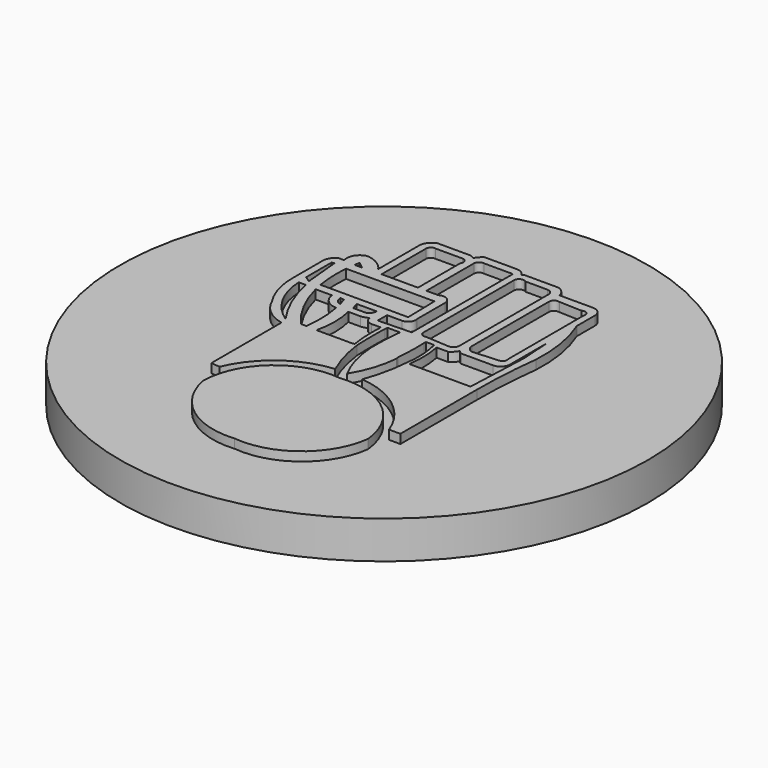
from build123d import *

# Parameters (mm, degrees)
F0_R     = 44.45
F1_DEPTH = 6.35
F3_DEPTH = 1.524


with BuildPart() as f1:
    # F0 (on Top) → F1 (new body)
    with BuildSketch(Plane.XY):
        Circle(F0_R)
    extrude(amount=F1_DEPTH)

    # F2 (on face) → F3 (join)
    with BuildSketch(Plane.XY.offset(6.35)):
        with BuildLine():
            Line((14.266744, -16.789505), (16.174421, -16.789505))
            Line((16.174421, -16.789505), (16.174421, -0.649076))
            ThreePointArc((16.174421, -0.649076), (16.35259, 5.129878), (16.886422, 10.886881))
            ThreePointArc((16.886422, 10.886881), (16.6022, 16.380735), (15.112001, 21.676255))
            Line((15.112001, 21.676255), (15.112001, 25.471544))
            ThreePointArc((15.112001, 25.471544), (14.701466, 26.54223), (13.680344, 27.063973))
            Line((13.680344, 27.063973), (7.902582, 27.063973))
            ThreePointArc((7.902582, 27.063973), (7.372902, 28.085604), (6.401274, 28.702233))
            Line((6.401274, 28.702233), (0.548699, 28.702233))
            Line((0.548699, 28.702233), (0.339415, 28.519413))
            ThreePointArc((0.339415, 28.519413), (-0.259658, 29.132217), (-1.078063, 29.386446))
            Line((-1.078063, 29.386446), (-6.596595, 29.386446))
            ThreePointArc((-6.596595, 29.386446), (-7.170552, 28.886002), (-7.601215, 28.257988))
            Line((-7.601215, 28.257988), (-8.275549, 28.62956))
            Line((-8.275549, 28.62956), (-13.902084, 28.62956))
            ThreePointArc((-13.902084, 28.62956), (-14.910327, 27.935183), (-15.399278, 26.812846))
            Line((-15.399278, 26.812846), (-15.399278, 18.007891))
            ThreePointArc((-15.399278, 18.007891), (-16.882262, 19.40477), (-18.825499, 20.016601))
            ThreePointArc((-18.825499, 20.016601), (-20.28896, 18.979166), (-20.476256, 17.195094))
            Line((-20.476256, 17.195094), (-21.57406, 17.195094))
            ThreePointArc((-21.57406, 17.195094), (-22.216836, 16.525485), (-22.592902, 15.67689))
            Line((-22.592902, 15.67689), (-22.592902, 8.915599))
            ThreePointArc((-22.592902, 8.915599), (-22.077656, 5.371643), (-20.574579, 2.121125))
            ThreePointArc((-20.574579, 2.121125), (-18.672328, -0.436179), (-15.81502, -1.848322))
            Line((-15.81502, -1.848322), (-15.81502, -16.607206))
            Line((-15.81502, -16.607206), (-14.312524, -16.722865))
            ThreePointArc((-14.312524, -16.722865), (-9.429926, -10.516693), (-2.041151, -7.730593))
            ThreePointArc((-2.041151, -7.730593), (-3.303385, -4.257154), (-4.034998, -0.63462))
            ThreePointArc((-4.034998, -0.63462), (-4.108309, 2.309206), (-4.067672, 5.253665))
            ThreePointArc((-4.067672, 5.253665), (-4.039435, 5.491092), (-4.00891, 5.728235))
            Line((-4.00891, 5.728235), (-1.892883, 5.728235))
            ThreePointArc((-1.892883, 5.728235), (-1.915238, 5.538951), (-1.936669, 5.349559))
            Line((-1.936669, 5.349559), (-1.127844, 5.349559))
            ThreePointArc((-1.127844, 5.349559), (-0.511039, 5.48037), (0, 5.849692))
            ThreePointArc((0, 5.849692), (0.356952, 5.483866), (0.85011, 5.349559))
            Line((0.85011, 5.349559), (2.461509, 5.349559))
            ThreePointArc((2.461509, 5.349559), (2.454231, 5.538914), (2.446139, 5.728235))
            Line((2.446139, 5.728235), (3.878172, 5.728235))
            ThreePointArc((3.878172, 5.728235), (3.906404, 5.552369), (3.933455, 5.376317))
            ThreePointArc((3.933455, 5.376317), (4.333716, 2.429223), (4.154318, -0.539512))
            ThreePointArc((4.154318, -0.539512), (3.615042, -4.235039), (2.56225, -7.818245))
            ThreePointArc((2.56225, -7.818245), (9.713316, -10.60935), (14.266744, -16.789505))
        make_face()
        with BuildLine():
            ThreePointArc((-16.038967, -0.69142), (-19.731668, 3.310632), (-21.20959, 8.551642))
            Line((-21.20959, 8.551642), (-20.019889, 8.551642))
            ThreePointArc((-20.019889, 8.551642), (-18.514927, 3.72101), (-16.038967, -0.69142))
        make_face(mode=Mode.SUBTRACT)
        with BuildLine():
            ThreePointArc((-13.586476, -0.54807), (-16.445581, 3.641916), (-18.237266, 8.387475))
            Line((-18.237266, 8.387475), (-15.499548, 8.387475))
            ThreePointArc((-15.499548, 8.387475), (-14.625554, 6.672839), (-12.842737, 5.947989))
            ThreePointArc((-12.842737, 5.947989), (-12.476999, 2.708513), (-12.627485, -0.54807))
            Line((-12.627485, -0.54807), (-13.586476, -0.54807))
        make_face(mode=Mode.SUBTRACT)
        with BuildLine():
            ThreePointArc((-13.11236, 7.145025), (-13.879679, 7.621043), (-14.111049, 8.493876))
            Line((-14.111049, 8.493876), (-13.473416, 8.387475))
            ThreePointArc((-13.473416, 8.387475), (-13.28312, 7.769089), (-13.11236, 7.145025))
        make_face(mode=Mode.SUBTRACT)
        with BuildLine():
            Line((-6.300529, 5.253665), (-4.758801, 5.253665))
            ThreePointArc((-4.758801, 5.253665), (-4.784728, 2.340306), (-4.501882, -0.559405))
            Line((-4.501882, -0.559405), (-4.961259, -0.63462))
            Line((-4.961259, -0.63462), (-10.877538, -0.63462))
            ThreePointArc((-10.877538, -0.63462), (-10.479745, 2.714587), (-10.877538, 6.063794))
            Line((-10.877538, 6.063794), (-8.80478, 6.063794))
            ThreePointArc((-8.80478, 6.063794), (-8.172808, 6.188255), (-7.577869, 6.435088))
            ThreePointArc((-7.577869, 6.435088), (-7.170494, 5.594303), (-6.300529, 5.253665))
        make_face(mode=Mode.SUBTRACT)
        with BuildLine():
            Line((-8.775949, 7.28746), (-11.041455, 7.287834))
            Line((-11.041455, 7.287834), (-11.40706, 8.493429))
            Line((-11.40706, 8.493429), (-8.008795, 8.493429))
            ThreePointArc((-8.008795, 8.493429), (-8.24989, 7.799807), (-8.775949, 7.28746))
        make_face(mode=Mode.SUBTRACT)
        Polygon((-21.360978, 10.283518), (-21.360978, 15.592238), (-20.94692, 15.797144), (-20.353174, 9.610877), align=None, mode=Mode.SUBTRACT)
        with BuildLine():
            ThreePointArc((-18.532675, 9.78182), (-18.842122, 12.618034), (-18.771222, 15.470199))
            Line((-18.771222, 15.470199), (-3.892624, 15.470199))
            Line((-3.892624, 15.470199), (-3.767836, 9.78182))
            Line((-3.767836, 9.78182), (-18.532675, 9.78182))
        make_face(mode=Mode.SUBTRACT)
        with BuildLine():
            ThreePointArc((-18.573843, 17.005851), (-18.496659, 17.443817), (-18.410383, 17.880082))
            Line((-18.410383, 17.880082), (-17.332906, 17.005851))
            Line((-17.332906, 17.005851), (-18.573843, 17.005851))
        make_face(mode=Mode.SUBTRACT)
        with BuildLine():
            Line((-6.300529, 6.534899), (-6.300529, 8.493429))
            Line((-6.300529, 8.493429), (-3.767836, 8.493429))
            ThreePointArc((-3.767836, 8.493429), (-2.736679, 9.009378), (-2.531396, 10.143992))
            Line((-2.531396, 10.143992), (-2.531396, 15.982734))
            ThreePointArc((-2.531396, 15.982734), (-3.221522, 17.167033), (-4.592129, 17.150482))
            Line((-4.592129, 17.150482), (-6.591743, 17.150482))
            Line((-6.591743, 17.150482), (-6.591743, 27.136466))
            ThreePointArc((-6.591743, 27.136466), (-6.267635, 27.810993), (-5.538483, 27.979434))
            Line((-5.538483, 27.979434), (-0.694411, 27.979434))
            Line((-0.694411, 27.979434), (-0.694411, 6.70159))
            Line((-0.694411, 6.70159), (-6.300529, 6.534899))
        make_face(mode=Mode.SUBTRACT)
        with BuildLine():
            Line((-8.013643, 17.150482), (-14.140188, 17.150482))
            Line((-14.140188, 17.150482), (-14.140188, 26.518733))
            ThreePointArc((-14.140188, 26.518733), (-13.849748, 27.131429), (-13.191588, 27.294455))
            Line((-13.191588, 27.294455), (-8.645599, 27.294455))
            ThreePointArc((-8.645599, 27.294455), (-7.93905, 26.857784), (-8.013643, 26.030542))
            Line((-8.013643, 26.030542), (-8.013643, 17.150482))
        make_face(mode=Mode.SUBTRACT)
        with BuildLine():
            Line((15.112001, 7.627903), (15.112001, 15.243931))
            Line((15.112001, 15.243931), (15.443285, 10.273153))
            Line((15.443285, 10.273153), (14.980395, -0.539512))
            Line((14.980395, -0.539512), (4.703305, -0.539512))
            ThreePointArc((4.703305, -0.539512), (4.864193, 2.424507), (4.550972, 5.376317))
            Line((4.550972, 5.376317), (6.504572, 5.376317))
            ThreePointArc((6.504572, 5.376317), (7.125882, 5.8923), (7.585937, 6.556087))
            ThreePointArc((7.585937, 6.556087), (7.819251, 6.193742), (8.226553, 6.052907))
            Line((8.226553, 6.052907), (13.490746, 6.052907))
            ThreePointArc((13.490746, 6.052907), (14.634262, 6.497739), (15.112001, 7.627903))
        make_face(mode=Mode.SUBTRACT)
        with BuildLine():
            Line((7.922829, 8.610461), (7.922829, 24.782225))
            ThreePointArc((7.922829, 24.782225), (8.272088, 25.474445), (9.036386, 25.60482))
            Line((9.036386, 25.60482), (12.86744, 25.471544))
            ThreePointArc((12.86744, 25.471544), (13.765173, 25.39672), (13.958097, 24.516776))
            Line((13.958097, 24.516776), (13.957501, 8.550652))
            ThreePointArc((13.957501, 8.550652), (13.935826, 8.00306), (13.536345, 7.627903))
            Line((13.536345, 7.627903), (8.888829, 7.321226))
            ThreePointArc((8.888829, 7.321226), (8.191121, 7.804967), (7.922829, 8.610461))
        make_face(mode=Mode.SUBTRACT)
        with BuildLine():
            ThreePointArc((1.552697, 6.873307), (0.84548, 6.997981), (0.52318, 7.639715))
            Line((0.52318, 7.639715), (0.52318, 26.681762))
            ThreePointArc((0.52318, 26.681762), (1.006138, 27.451212), (1.909034, 27.350808))
            Line((1.909034, 27.350808), (5.614514, 27.350808))
            ThreePointArc((5.614514, 27.350808), (6.40227, 26.969772), (6.592581, 26.115647))
            Line((6.592581, 26.115647), (6.592581, 7.58825))
            ThreePointArc((6.592581, 7.58825), (6.307473, 6.89811), (5.618407, 6.610415))
            Line((5.618407, 6.610415), (1.552697, 6.873307))
        make_face(mode=Mode.SUBTRACT)
        with BuildLine():
            Line((14.266744, -16.789505), (16.174421, -16.789505))
            Line((16.174421, -16.789505), (16.174421, -0.649076))
            ThreePointArc((16.174421, -0.649076), (16.35259, 5.129878), (16.886422, 10.886881))
            ThreePointArc((16.886422, 10.886881), (16.6022, 16.380735), (15.112001, 21.676255))
            Line((15.112001, 21.676255), (15.112001, 25.471544))
            ThreePointArc((15.112001, 25.471544), (14.701466, 26.54223), (13.680344, 27.063973))
            Line((13.680344, 27.063973), (7.902582, 27.063973))
            ThreePointArc((7.902582, 27.063973), (7.372902, 28.085604), (6.401274, 28.702233))
            Line((6.401274, 28.702233), (0.548699, 28.702233))
            Line((0.548699, 28.702233), (0.339415, 28.519413))
            ThreePointArc((0.339415, 28.519413), (-0.259658, 29.132217), (-1.078063, 29.386446))
            Line((-1.078063, 29.386446), (-6.596595, 29.386446))
            ThreePointArc((-6.596595, 29.386446), (-7.170552, 28.886002), (-7.601215, 28.257988))
            Line((-7.601215, 28.257988), (-8.275549, 28.62956))
            Line((-8.275549, 28.62956), (-13.902084, 28.62956))
            ThreePointArc((-13.902084, 28.62956), (-14.910327, 27.935183), (-15.399278, 26.812846))
            Line((-15.399278, 26.812846), (-15.399278, 18.007891))
            ThreePointArc((-15.399278, 18.007891), (-16.882262, 19.40477), (-18.825499, 20.016601))
            ThreePointArc((-18.825499, 20.016601), (-20.28896, 18.979166), (-20.476256, 17.195094))
            Line((-20.476256, 17.195094), (-21.57406, 17.195094))
            ThreePointArc((-21.57406, 17.195094), (-22.216836, 16.525485), (-22.592902, 15.67689))
            Line((-22.592902, 15.67689), (-22.592902, 8.915599))
            ThreePointArc((-22.592902, 8.915599), (-22.077656, 5.371643), (-20.574579, 2.121125))
            ThreePointArc((-20.574579, 2.121125), (-18.672328, -0.436179), (-15.81502, -1.848322))
            Line((-15.81502, -1.848322), (-15.81502, -16.607206))
            Line((-15.81502, -16.607206), (-14.312524, -16.722865))
            ThreePointArc((-14.312524, -16.722865), (-9.429926, -10.516693), (-2.041151, -7.730593))
            ThreePointArc((-2.041151, -7.730593), (-3.303385, -4.257154), (-4.034998, -0.63462))
            ThreePointArc((-4.034998, -0.63462), (-4.108309, 2.309206), (-4.067672, 5.253665))
            ThreePointArc((-4.067672, 5.253665), (-4.039435, 5.491092), (-4.00891, 5.728235))
            Line((-4.00891, 5.728235), (-1.892883, 5.728235))
            ThreePointArc((-1.892883, 5.728235), (-1.915238, 5.538951), (-1.936669, 5.349559))
            Line((-1.936669, 5.349559), (-1.127844, 5.349559))
            ThreePointArc((-1.127844, 5.349559), (-0.511039, 5.48037), (0, 5.849692))
            ThreePointArc((0, 5.849692), (0.356952, 5.483866), (0.85011, 5.349559))
            Line((0.85011, 5.349559), (2.461509, 5.349559))
            ThreePointArc((2.461509, 5.349559), (2.454231, 5.538914), (2.446139, 5.728235))
            Line((2.446139, 5.728235), (3.878172, 5.728235))
            ThreePointArc((3.878172, 5.728235), (3.906404, 5.552369), (3.933455, 5.376317))
            ThreePointArc((3.933455, 5.376317), (4.333716, 2.429223), (4.154318, -0.539512))
            ThreePointArc((4.154318, -0.539512), (3.615042, -4.235039), (2.56225, -7.818245))
            ThreePointArc((2.56225, -7.818245), (9.713316, -10.60935), (14.266744, -16.789505))
        make_face()
        with BuildLine():
            ThreePointArc((-16.038967, -0.69142), (-19.731668, 3.310632), (-21.20959, 8.551642))
            Line((-21.20959, 8.551642), (-20.019889, 8.551642))
            ThreePointArc((-20.019889, 8.551642), (-18.514927, 3.72101), (-16.038967, -0.69142))
        make_face(mode=Mode.SUBTRACT)
        with BuildLine():
            ThreePointArc((-13.586476, -0.54807), (-16.445581, 3.641916), (-18.237266, 8.387475))
            Line((-18.237266, 8.387475), (-15.499548, 8.387475))
            ThreePointArc((-15.499548, 8.387475), (-14.625554, 6.672839), (-12.842737, 5.947989))
            ThreePointArc((-12.842737, 5.947989), (-12.476999, 2.708513), (-12.627485, -0.54807))
            Line((-12.627485, -0.54807), (-13.586476, -0.54807))
        make_face(mode=Mode.SUBTRACT)
        with BuildLine():
            ThreePointArc((-13.11236, 7.145025), (-13.879679, 7.621043), (-14.111049, 8.493876))
            Line((-14.111049, 8.493876), (-13.473416, 8.387475))
            ThreePointArc((-13.473416, 8.387475), (-13.28312, 7.769089), (-13.11236, 7.145025))
        make_face(mode=Mode.SUBTRACT)
        with BuildLine():
            Line((-6.300529, 5.253665), (-4.758801, 5.253665))
            ThreePointArc((-4.758801, 5.253665), (-4.784728, 2.340306), (-4.501882, -0.559405))
            Line((-4.501882, -0.559405), (-4.961259, -0.63462))
            Line((-4.961259, -0.63462), (-10.877538, -0.63462))
            ThreePointArc((-10.877538, -0.63462), (-10.479745, 2.714587), (-10.877538, 6.063794))
            Line((-10.877538, 6.063794), (-8.80478, 6.063794))
            ThreePointArc((-8.80478, 6.063794), (-8.172808, 6.188255), (-7.577869, 6.435088))
            ThreePointArc((-7.577869, 6.435088), (-7.170494, 5.594303), (-6.300529, 5.253665))
        make_face(mode=Mode.SUBTRACT)
        with BuildLine():
            Line((-8.775949, 7.28746), (-11.041455, 7.287834))
            Line((-11.041455, 7.287834), (-11.40706, 8.493429))
            Line((-11.40706, 8.493429), (-8.008795, 8.493429))
            ThreePointArc((-8.008795, 8.493429), (-8.24989, 7.799807), (-8.775949, 7.28746))
        make_face(mode=Mode.SUBTRACT)
        Polygon((-21.360978, 10.283518), (-21.360978, 15.592238), (-20.94692, 15.797144), (-20.353174, 9.610877), align=None, mode=Mode.SUBTRACT)
        with BuildLine():
            ThreePointArc((-18.532675, 9.78182), (-18.842122, 12.618034), (-18.771222, 15.470199))
            Line((-18.771222, 15.470199), (-3.892624, 15.470199))
            Line((-3.892624, 15.470199), (-3.767836, 9.78182))
            Line((-3.767836, 9.78182), (-18.532675, 9.78182))
        make_face(mode=Mode.SUBTRACT)
        with BuildLine():
            ThreePointArc((-18.573843, 17.005851), (-18.496659, 17.443817), (-18.410383, 17.880082))
            Line((-18.410383, 17.880082), (-17.332906, 17.005851))
            Line((-17.332906, 17.005851), (-18.573843, 17.005851))
        make_face(mode=Mode.SUBTRACT)
        with BuildLine():
            Line((-6.300529, 6.534899), (-6.300529, 8.493429))
            Line((-6.300529, 8.493429), (-3.767836, 8.493429))
            ThreePointArc((-3.767836, 8.493429), (-2.736679, 9.009378), (-2.531396, 10.143992))
            Line((-2.531396, 10.143992), (-2.531396, 15.982734))
            ThreePointArc((-2.531396, 15.982734), (-3.221522, 17.167033), (-4.592129, 17.150482))
            Line((-4.592129, 17.150482), (-6.591743, 17.150482))
            Line((-6.591743, 17.150482), (-6.591743, 27.136466))
            ThreePointArc((-6.591743, 27.136466), (-6.267635, 27.810993), (-5.538483, 27.979434))
            Line((-5.538483, 27.979434), (-0.694411, 27.979434))
            Line((-0.694411, 27.979434), (-0.694411, 6.70159))
            Line((-0.694411, 6.70159), (-6.300529, 6.534899))
        make_face(mode=Mode.SUBTRACT)
        with BuildLine():
            Line((-8.013643, 17.150482), (-14.140188, 17.150482))
            Line((-14.140188, 17.150482), (-14.140188, 26.518733))
            ThreePointArc((-14.140188, 26.518733), (-13.849748, 27.131429), (-13.191588, 27.294455))
            Line((-13.191588, 27.294455), (-8.645599, 27.294455))
            ThreePointArc((-8.645599, 27.294455), (-7.93905, 26.857784), (-8.013643, 26.030542))
            Line((-8.013643, 26.030542), (-8.013643, 17.150482))
        make_face(mode=Mode.SUBTRACT)
        with BuildLine():
            Line((15.112001, 7.627903), (15.112001, 15.243931))
            Line((15.112001, 15.243931), (15.443285, 10.273153))
            Line((15.443285, 10.273153), (14.980395, -0.539512))
            Line((14.980395, -0.539512), (4.703305, -0.539512))
            ThreePointArc((4.703305, -0.539512), (4.864193, 2.424507), (4.550972, 5.376317))
            Line((4.550972, 5.376317), (6.504572, 5.376317))
            ThreePointArc((6.504572, 5.376317), (7.125882, 5.8923), (7.585937, 6.556087))
            ThreePointArc((7.585937, 6.556087), (7.819251, 6.193742), (8.226553, 6.052907))
            Line((8.226553, 6.052907), (13.490746, 6.052907))
            ThreePointArc((13.490746, 6.052907), (14.634262, 6.497739), (15.112001, 7.627903))
        make_face(mode=Mode.SUBTRACT)
        with BuildLine():
            Line((7.922829, 8.610461), (7.922829, 24.782225))
            ThreePointArc((7.922829, 24.782225), (8.272088, 25.474445), (9.036386, 25.60482))
            Line((9.036386, 25.60482), (12.86744, 25.471544))
            ThreePointArc((12.86744, 25.471544), (13.765173, 25.39672), (13.958097, 24.516776))
            Line((13.958097, 24.516776), (13.957501, 8.550652))
            ThreePointArc((13.957501, 8.550652), (13.935826, 8.00306), (13.536345, 7.627903))
            Line((13.536345, 7.627903), (8.888829, 7.321226))
            ThreePointArc((8.888829, 7.321226), (8.191121, 7.804967), (7.922829, 8.610461))
        make_face(mode=Mode.SUBTRACT)
        with BuildLine():
            ThreePointArc((1.552697, 6.873307), (0.84548, 6.997981), (0.52318, 7.639715))
            Line((0.52318, 7.639715), (0.52318, 26.681762))
            ThreePointArc((0.52318, 26.681762), (1.006138, 27.451212), (1.909034, 27.350808))
            Line((1.909034, 27.350808), (5.614514, 27.350808))
            ThreePointArc((5.614514, 27.350808), (6.40227, 26.969772), (6.592581, 26.115647))
            Line((6.592581, 26.115647), (6.592581, 7.58825))
            ThreePointArc((6.592581, 7.58825), (6.307473, 6.89811), (5.618407, 6.610415))
            Line((5.618407, 6.610415), (1.552697, 6.873307))
        make_face(mode=Mode.SUBTRACT)
        with BuildLine():
            ThreePointArc((2.330028, 0), (2.47715, 2.672779), (2.461509, 5.349559))
            Line((2.461509, 5.349559), (0.85011, 5.349559))
            ThreePointArc((0.85011, 5.349559), (0.356952, 5.483866), (0, 5.849692))
            ThreePointArc((0, 5.849692), (-0.511039, 5.48037), (-1.127844, 5.349559))
            Line((-1.127844, 5.349559), (-1.936669, 5.349559))
            ThreePointArc((-1.936669, 5.349559), (-2.139902, 2.678604), (-2.159591, 0))
            Line((-2.159591, 0), (-2.1367, -0.361056))
            ThreePointArc((-2.1367, -0.361056), (-1.472688, -4.183908), (0, -7.773657))
            ThreePointArc((0, -7.773657), (1.648648, -4.211842), (2.407598, -0.361056))
            Line((2.407598, -0.361056), (2.330028, 0))
        make_face()
        with BuildLine():
            ThreePointArc((13.76911, -20.601507), (9.212705, -12.131996), (0, -9.371649))
            ThreePointArc((0, -9.371649), (-9.405733, -12.252162), (-13.520366, -21.187203))
            ThreePointArc((-13.520366, -21.187203), (-8.742345, -28.930073), (0, -31.45057))
            ThreePointArc((0, -31.45057), (9.10247, -28.84091), (13.76911, -20.601507))
        make_face()
    extrude(amount=F3_DEPTH)


solid = f1.part
